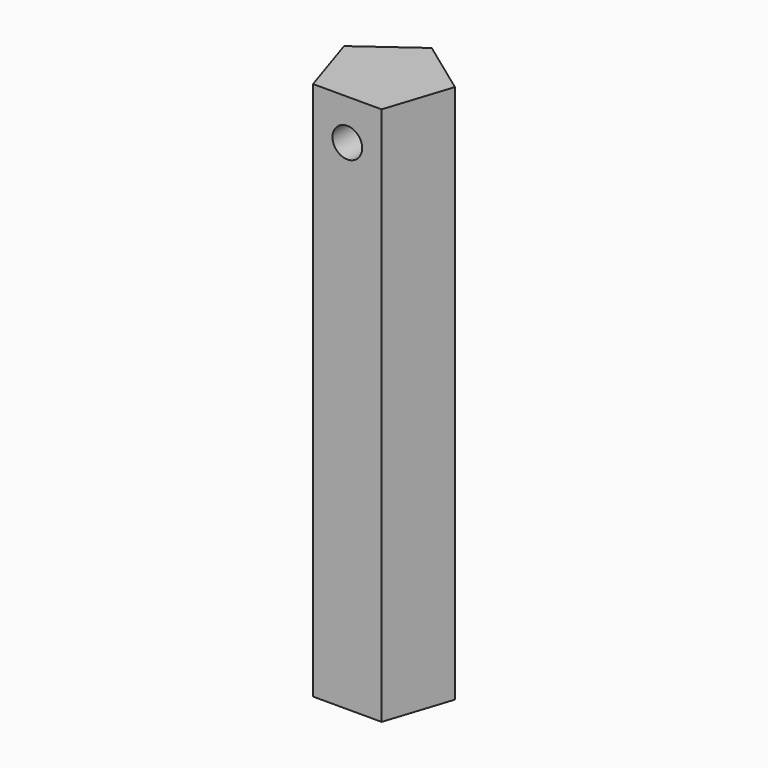
from build123d import *

# Parameters (mm, degrees)
F1_DEPTH = 50.8
F2_R     = 1.397
F3_DEPTH = 63.5


with BuildPart() as f1:
    # F0 (on Top) → F1 (new body)
    with BuildSketch(Plane.XY):
        Polygon((3.229482, -4.445), (5.225411, 1.697839), (0, 5.494322), (-5.225411, 1.697839), (-3.229482, -4.445), align=None)
    extrude(amount=F1_DEPTH)

    # F2 (on face) → F3 (cut, symmetric)
    with BuildSketch(Plane.XZ.offset(4.445)):
        with Locations((0, 46.99)):
            Circle(F2_R)
    extrude(amount=F3_DEPTH, both=True, mode=Mode.SUBTRACT)


solid = f1.part
